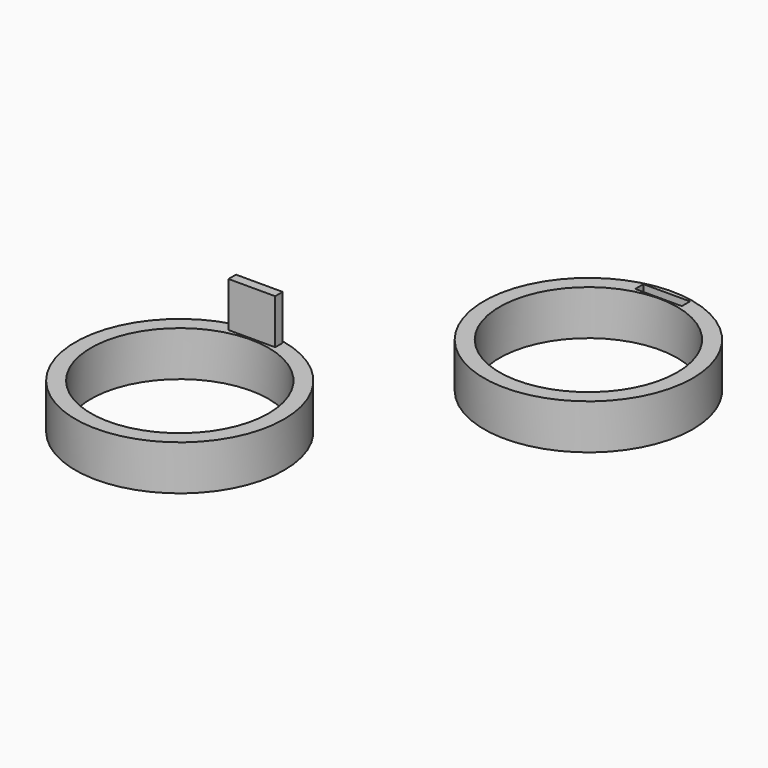
from build123d import *

# Parameters (mm, degrees)
F0_R     = 14.751429
F0_R_2   = 12.549988
F0_R_3   = 14.7574
F0_R_4   = 12.5476
F0_W     = 6.585304
F0_H     = 1.449596
F1_DEPTH = 6.35
F2_W     = 6.599954
F2_H     = 1.329841
F3_DEPTH = 12.7


with BuildPart() as f1:
    # F0 (on Top) → F1 (new body)
    with BuildSketch(Plane.XY):
        Circle(F0_R)
        Circle(F0_R_2, mode=Mode.SUBTRACT)
        with Locations((29.086677, 35.821378)):
            Circle(F0_R_3)
        with Locations((29.086677, 35.821378)):
            Circle(F0_R_4, mode=Mode.SUBTRACT)
        with Locations((28.843103, 49.232328)):
            Rectangle(F0_W, F0_H, mode=Mode.SUBTRACT)
    extrude(amount=F1_DEPTH)

    # F2 (on Top) → F3 (join)
    with BuildSketch(Plane.XY):
        with Locations((-0.060716, 13.467188)):
            Rectangle(F2_W, F2_H)
    extrude(amount=F3_DEPTH)


solid = f1.part
